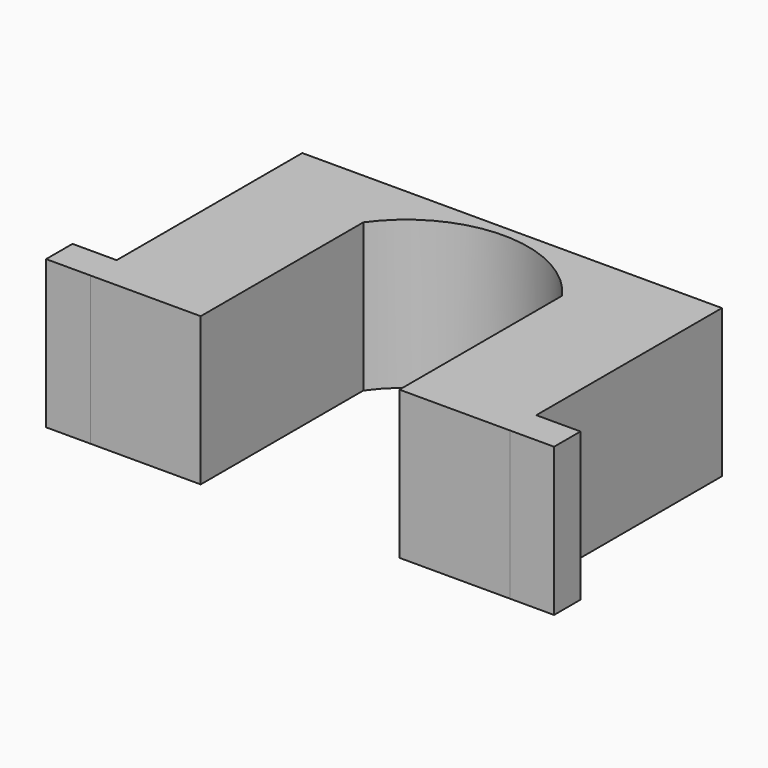
from build123d import *

# Parameters (mm, degrees)
F0_W     = 10
F0_H     = 7.475247
F1_DEPTH = 33.528


with BuildPart() as f1:
    # F0 (on Top) → F1 (new body)
    with BuildSketch(Plane.XY):
        with Locations((-52.5, -26.262377)):
            Rectangle(F0_W, F0_H)
        with Locations((52.5, -26.262377)):
            Rectangle(F0_W, F0_H)
        with BuildLine():
            Line((47.5, 30), (-47.5, 30))
            Line((-47.5, 30), (-47.5, -22.524753))
            Line((-47.5, -22.524753), (-47.5, -30))
            Line((-47.5, -30), (-22.5, -30))
            Line((-22.5, -30), (-22.5, 0))
            Line((-22.5, 0), (-22.5, 16.022185))
            ThreePointArc((-22.5, 16.022185), (0, 27.621738), (22.5, 16.022185))
            Line((22.5, 16.022185), (22.5, 0))
            Line((22.5, 0), (22.5, -30))
            Line((22.5, -30), (47.5, -30))
            Line((47.5, -30), (47.5, -22.524753))
            Line((47.5, -22.524753), (47.5, 30))
        make_face()
        with BuildLine():
            Line((47.5, 30), (-47.5, 30))
            Line((-47.5, 30), (-47.5, -22.524753))
            Line((-47.5, -22.524753), (-47.5, -30))
            Line((-47.5, -30), (-22.5, -30))
            Line((-22.5, -30), (-22.5, 0))
            Line((-22.5, 0), (-22.5, 16.022185))
            ThreePointArc((-22.5, 16.022185), (0, 27.621738), (22.5, 16.022185))
            Line((22.5, 16.022185), (22.5, 0))
            Line((22.5, 0), (22.5, -30))
            Line((22.5, -30), (47.5, -30))
            Line((47.5, -30), (47.5, -22.524753))
            Line((47.5, -22.524753), (47.5, 30))
        make_face()
    extrude(amount=F1_DEPTH)


solid = f1.part
